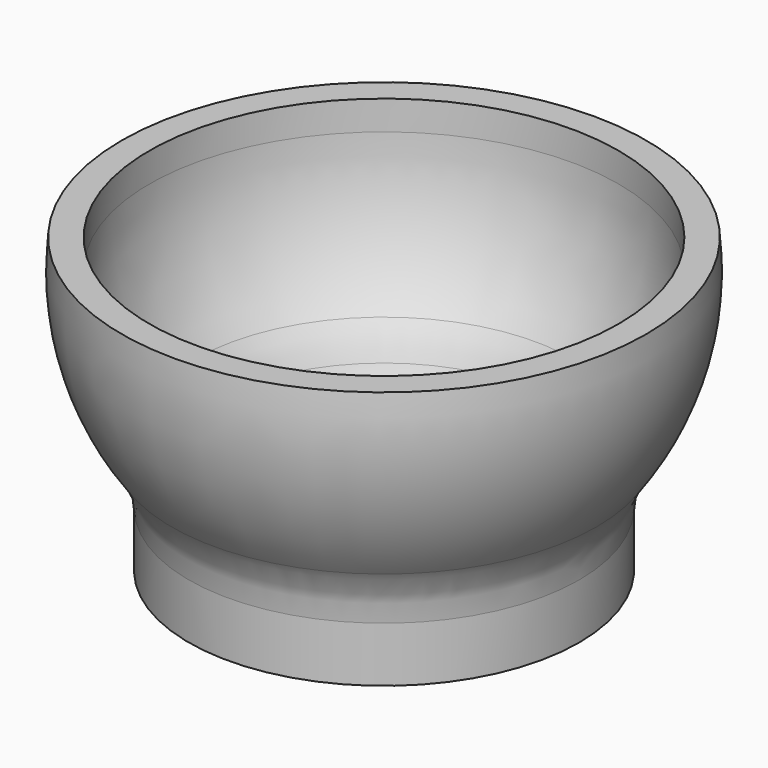
from build123d import *


with BuildPart() as f1:
    # F0 (on Front) → F1 (revolve)
    with BuildSketch(Plane.XZ):
        with BuildLine():
            ThreePointArc((4.255911, 64.704712), (1.714418, 48.837875), (-5.655763, 34.558655))
            ThreePointArc((-5.655763, 34.558655), (-7.720423, 31.254775), (-9.255526, 27.674007))
            ThreePointArc((-9.255526, 27.674007), (-16.662902, 17.701808), (-28.490668, 13.904712))
            Line((-28.490668, 13.904712), (-46.544089, 13.904712))
            Line((-46.544089, 13.904712), (-46.544089, 7.554712))
            Line((-46.544089, 7.554712), (-4.261599, 7.554712))
            Line((-4.261599, 7.554712), (-4.261599, 19.485627))
            ThreePointArc((-4.261599, 19.485627), (-3.308539, 25.43569), (-0.544722, 30.790398))
            ThreePointArc((-0.544722, 30.790398), (8.65584, 49.903011), (10.252037, 71.054712))
            Line((10.252037, 71.054712), (4.255911, 71.054712))
            Line((4.255911, 71.054712), (4.255911, 64.704712))
        make_face()
    revolve(axis=Axis((-46.544089, 0, 10.729712), (0, 0, 1)))


solid = f1.part
